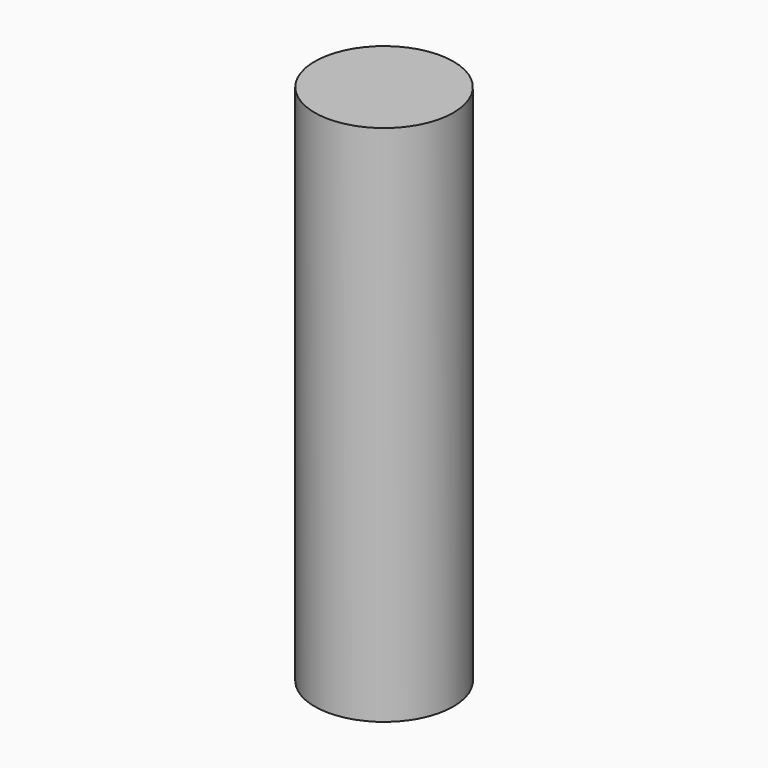
from build123d import *

# Parameters (mm, degrees)
F0_R     = 10.6678083168
F1_DEPTH = 27.7
F2_DEPTH = 25


with BuildPart() as f1:
    # F0 (on Top) → F1 (new body, symmetric)
    with BuildSketch(Plane.XY):
        Circle(F0_R)
    extrude(amount=F1_DEPTH, both=True)

    # F2 (add): a face of the model
    f2_faces = [f1.faces().sort_by_distance(p)[0] for p in [
        (0, 0, 27.7),
    ]]
    extrude(f2_faces, amount=F2_DEPTH)


solid = f1.part
